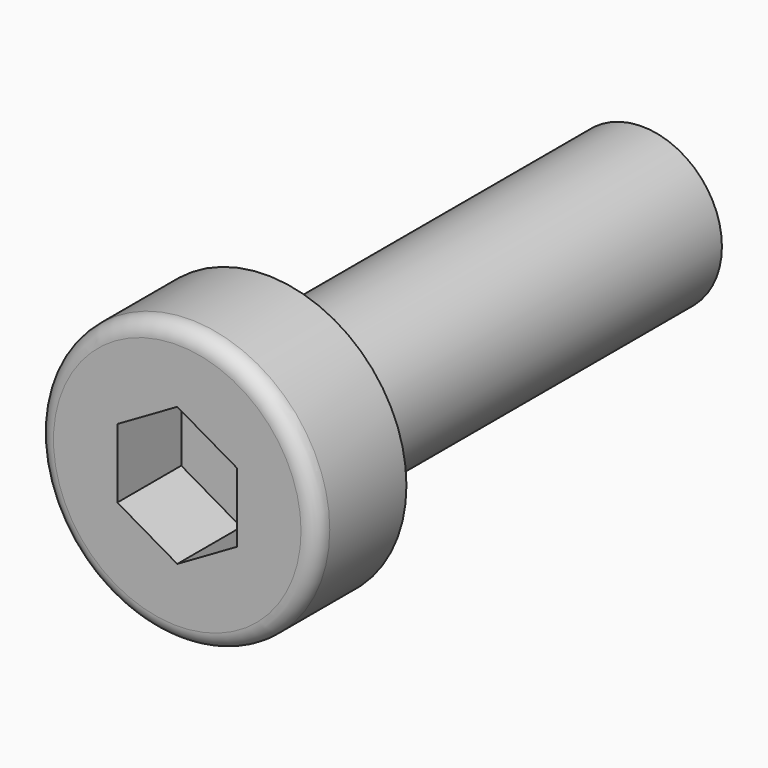
from build123d import *

# Parameters (mm, degrees)
POCKET_DEPTH = 2


with BuildPart() as part:
    # Sketch → Revolution (revolve)
    with BuildSketch(Plane.XY):
        with BuildLine():
            Line((2, 0), (3.5, 0))
            Line((3.5, 0), (3.5, -2.4))
            ThreePointArc((3.1, -2.8), (3.382843, -2.682843), (3.5, -2.4))
            Line((3.1, -2.8), (0, -2.8))
            Line((0, -2.8), (0, 12))
            Line((0, 12), (1.57, 12))
            Line((1.57, 12), (2, 11.751739))
            Line((2, 11.751739), (2, 0))
        make_face()
    revolve(axis=Axis((0, 0, 0), (0, 1, 0)))

    # Sketch001 → Pocket (cut)
    with BuildSketch(Plane.XZ.offset(2.8)):
        Polygon((-1.5, 0.866025), (-1.5, -0.866025), (0, -1.732051), (1.5, -0.866025), (1.5, 0.866025), (0, 1.732051), align=None)
    extrude(amount=-POCKET_DEPTH, mode=Mode.SUBTRACT)


solid = part.part
